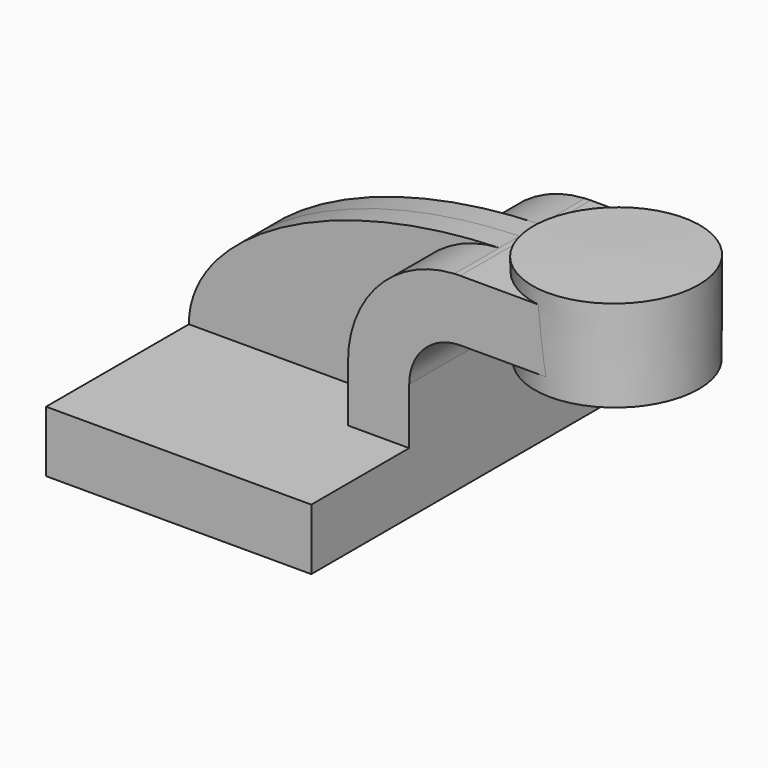
from build123d import *

# Parameters (mm, degrees)
F1_DEPTH = 63.5
F0_W     = 3.175
F0_H     = 19.05
F0_W_2   = 25.0260655152
F2_DEPTH = 25.4
F3_DEPTH = 7.9375


with BuildPart() as f1:
    # F0 (on Front) → F1 (new body, symmetric)
    with BuildSketch(Plane.XZ):
        Polygon((-41.275, -9.525), (41.275, -9.525), (41.275, 9.525), (22.225, 9.525), (-41.275, 9.525), align=None)
    extrude(amount=F1_DEPTH, both=True)

    # F0 (on Front) → F2 (join, symmetric)
    with BuildSketch(Plane.XZ):
        with BuildLine():
            Line((22.225, 9.525), (41.275, 9.525))
            Line((41.275, 9.525), (41.275, 27.0002))
            ThreePointArc((41.275, 27.0002), (45.9246798487, 38.2255201513), (57.15, 42.8752))
            Line((57.15, 42.8752), (57.15, 61.9252))
            add(Edge.make_bspline(
                [(55.3542016854, 61.8790006304), (55.9510424401, 61.8970923773), (56.5496518298, 61.9125018017), (57.15, 61.9252)],
                knots=[110.3332055553, 110.3332055553, 110.3332055553, 110.3332055553, 111.5045361635, 111.5045361635, 111.5045361635, 111.5045361635], degree=3))
            ThreePointArc((55.3542016854, 61.8790006304), (31.8273433351, 51.0526153555), (22.225, 27.0002))
            Line((22.225, 27.0002), (22.225, 9.525))
        make_face()
        with Locations((58.7375, 52.4002)):
            Rectangle(F0_W, F0_H)
        with Locations((72.8380327576, 52.4002)):
            Rectangle(F0_W_2, F0_H)
    extrude(amount=F2_DEPTH, both=True)

    # F0 (on Front) → F4 (revolve)
    with BuildSketch(Plane.XZ):
        Polygon((85.3510655152, 66.675), (85.725, 38.1), (111.125, 38.1), (111.125, 66.675), align=None)
    revolve(axis=Axis((85.5380327576, 0, 52.3875), (-0.0130849509, 0, 0.9999143884)))


with BuildPart() as f3:
    # F0 (on Front) → F3 (new body, symmetric)
    with BuildSketch(Plane.XZ):
        with BuildLine():
            add(Edge.make_bspline(
                [(-41.275, 9.525), (-41.3918569019, 34.6713886687), (-0.8650699785, 60.1748528703), (55.3542016854, 61.8790006304)],
                knots=[0, 0, 0, 0, 110.3332055553, 110.3332055553, 110.3332055553, 110.3332055553], degree=3))
            Line((-41.275, 9.525), (22.225, 9.525))
            Line((22.225, 9.525), (22.225, 27.0002))
            ThreePointArc((22.225, 27.0002), (31.8273433351, 51.0526153555), (55.3542016854, 61.8790006304))
        make_face()
    extrude(amount=F3_DEPTH, both=True)


solid = Compound([f1.part, f3.part])
